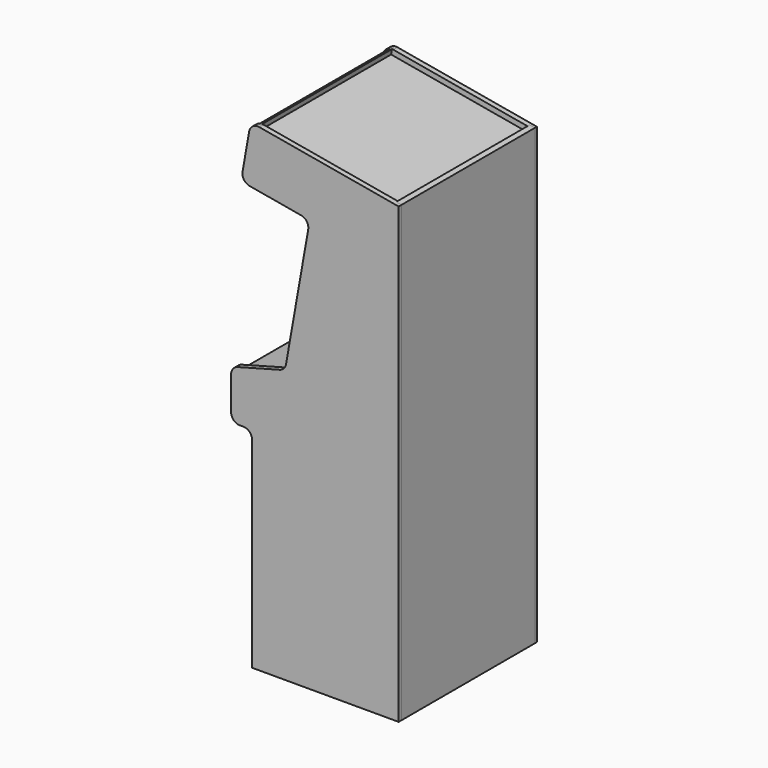
from build123d import *

# Parameters (mm, degrees)
F1_DEPTH       = 19.05
F2_W           = 476.25
F2_H           = 19.05
F2_W_2         = 57.15
F3_DEPTH       = 6.35
F6_DEPTH       = 596.9
F6_DEPTH_BACK  = 9.525
F7_DEPTH       = 596.9
F7_DEPTH_BACK  = 9.525
F8_DEPTH       = 596.9
F8_DEPTH_BACK  = 9.525
F9_DEPTH       = 596.9
F9_DEPTH_BACK  = 9.525
F10_W          = 419.1
F10_H          = 419.1
F11_DEPTH      = 25.4
F12_DEPTH      = 34.925
F12_DEPTH_BACK = 9.525
F13_DEPTH      = 596.9
F13_DEPTH_BACK = 9.525
F14_DEPTH      = 596.9
F14_DEPTH_BACK = 9.525
F15_DEPTH      = 596.9
F15_DEPTH_BACK = 9.525
F16_DEPTH      = 596.9
F16_DEPTH_BACK = 9.525
F17_DEPTH      = 596.9
F17_DEPTH_BACK = 9.525
F20_DEPTH      = 590.55
F21_W          = 508
F21_H          = 508
F21_W_2        = 419.1
F21_H_2        = 419.1
F21_W_3        = 406.4
F21_H_3        = 330.2
F22_DEPTH      = 19.05
F23_SIZE       = 15.875
F24_SIZE       = 15.875


with BuildPart() as f1:
    # F0 (on Front) → F1 (new body)
    with BuildSketch(Plane.XZ):
        with BuildLine():
            Line((0, 0), (533.4, 0))
            Line((533.4, 0), (533.4, 1651))
            Line((533.4, 1651), (26.2944406948, 1740.4163921728))
            ThreePointArc((26.2944406948, 1740.4163921728), (2.5700591998, 1735.1568234208), (-10.4865351042, 1714.6620756555))
            Line((-10.4865351042, 1714.6620756555), (-34.7451855243, 1577.0844325597))
            ThreePointArc((-34.7451855243, 1577.0844325597), (-29.4856167723, 1553.3600510647), (-8.9908690071, 1540.3034567607))
            Line((-8.9908690071, 1540.3034567607), (178.6150079417, 1507.2234789151))
            ThreePointArc((178.6150079417, 1507.2234789151), (199.109755707, 1494.1668846111), (204.3693244589, 1470.4425031161))
            Line((204.3693244589, 1470.4425031161), (123.5885062542, 1012.3117174576))
            ThreePointArc((123.5885062542, 1012.3117174576), (115.7294155398, 996.3750580068), (100.5383647781, 987.1569021139))
            Line((100.5383647781, 987.1569021139), (-52.667504682, 946.1055131163))
            ThreePointArc((-52.667504682, 946.1055131163), (-69.6389685542, 934.7655435027), (-76.2, 915.4373681317))
            Line((-76.2, 915.4373681317), (-76.2, 793.75))
            ThreePointArc((-76.2, 793.75), (-66.9006403027, 771.2993596973), (-44.45, 762))
            Line((-44.45, 762), (-31.75, 762))
            ThreePointArc((-31.75, 762), (-9.2993596973, 752.7006403027), (0, 730.25))
            Line((0, 730.25), (0, 0))
        make_face()
    extrude(amount=F1_DEPTH)

    # F2 (on face) → F3 (cut)
    with BuildSketch(Plane.XZ.offset(19.05)):
        Polygon((533.4, 1651), (514.35, 1654.3590289825), (514.35, 1635.0151520261), (514.35, 1615.6712750696), (514.35, 120.65), (514.35, 101.6), (514.35, 0), (533.4, 0), align=None)
        with Locations((276.225, 111.125)):
            Rectangle(F2_W, F2_H)
        Polygon((38.1, 101.6), (38.1, 120.65), (38.1, 800.1), (19.05, 800.1), (19.05, 781.05), (19.05, 0), (38.1, 0), align=None)
        with Locations((-9.525, 790.575)):
            Rectangle(F2_W_2, F2_H)
        Polygon((-38.1, 781.05), (-38.1, 800.1), (-38.1, 897.4168342668), (-38.1, 917.1388455036), (-57.15, 912.0344133878), (-57.15, 781.05), align=None)
        Polygon((-38.1, 781.05), (-38.1, 800.1), (-38.1, 897.4168342668), (-38.1, 917.1388455036), (-57.15, 912.0344133878), (-57.15, 781.05), align=None)
        Polygon((168.1345281028, 972.3992207602), (263.2188857374, 1511.6494095436), (244.4582980426, 1514.9574073282), (147.8313957078, 966.9590128311), align=None)
        Polygon((266.526883522, 1530.4099972385), (-7.0775274202, 1578.6538369284), (-10.3855252047, 1559.8932492336), (244.4582980426, 1514.9574073282), (263.2188857374, 1511.6494095436), align=None)
        with BuildLine():
            Line((14.9757911435, 1703.724421561), (18.2837889281, 1722.4850092559))
            Line((18.2837889281, 1722.4850092559), (21.529073841, 1740.889934582))
            ThreePointArc((21.529073841, 1740.889934582), (17.3994339461, 1740.7181419534), (13.3271026728, 1740.0113489355))
            Line((13.3271026728, 1740.0113489355), (10.479384447, 1723.8611363342))
            Line((10.479384447, 1723.8611363342), (-18.1899296858, 1561.2693763119))
            Line((-18.1899296858, 1561.2693763119), (-10.3855252047, 1559.8932492336))
            Line((-10.3855252047, 1559.8932492336), (-7.0775274202, 1578.6538369284))
            Line((-7.0775274202, 1578.6538369284), (14.9757911435, 1703.724421561))
        make_face()
        Polygon((514.35, 1615.6712750696), (514.35, 1635.0151520261), (18.2837889281, 1722.4850092559), (14.9757911435, 1703.724421561), align=None)
        with BuildLine():
            Line((14.9757911435, 1703.724421561), (18.2837889281, 1722.4850092559))
            Line((18.2837889281, 1722.4850092559), (21.529073841, 1740.889934582))
            ThreePointArc((21.529073841, 1740.889934582), (17.3994339461, 1740.7181419534), (13.3271026728, 1740.0113489355))
            Line((13.3271026728, 1740.0113489355), (10.479384447, 1723.8611363342))
            Line((10.479384447, 1723.8611363342), (-18.1899296858, 1561.2693763119))
            Line((-18.1899296858, 1561.2693763119), (-10.3855252047, 1559.8932492336))
            Line((-10.3855252047, 1559.8932492336), (-7.0775274202, 1578.6538369284))
            Line((-7.0775274202, 1578.6538369284), (14.9757911435, 1703.724421561))
        make_face()
        Polygon((164.4845563913, 951.6992025509), (168.1345281028, 972.3992207602), (147.8313957078, 966.9590128311), (-38.1, 917.1388455036), (-38.1, 897.4168342668), align=None)
    extrude(amount=-F3_DEPTH, mode=Mode.SUBTRACT)


with BuildPart() as f5_1:
    # F5: instance of F1
    add(f1.part.mirror(Plane(origin=(293.9945247949, -314.325, 827.7920823143), x_dir=(1, 0, 0), z_dir=(0, -1, 0))))


with BuildPart() as f6:
    # F2 (on face) → F6 (new body, two sides)
    with BuildSketch(Plane.XZ.offset(19.05)) as f6_sk:
        Polygon((514.35, 1615.6712750696), (514.35, 1635.0151520261), (18.2837889281, 1722.4850092559), (14.9757911435, 1703.724421561), align=None)
    extrude(amount=F6_DEPTH)
    extrude(f6_sk.sketch, amount=-F6_DEPTH_BACK)


with BuildPart() as f7:
    # F2 (on face) → F7 (new body, two sides)
    with BuildSketch(Plane.XZ.offset(19.05)) as f7_sk:
        with BuildLine():
            Line((14.9757911435, 1703.724421561), (18.2837889281, 1722.4850092559))
            Line((18.2837889281, 1722.4850092559), (21.529073841, 1740.889934582))
            ThreePointArc((21.529073841, 1740.889934582), (17.3994339461, 1740.7181419534), (13.3271026728, 1740.0113489355))
            Line((13.3271026728, 1740.0113489355), (10.479384447, 1723.8611363342))
            Line((10.479384447, 1723.8611363342), (-18.1899296858, 1561.2693763119))
            Line((-18.1899296858, 1561.2693763119), (-10.3855252047, 1559.8932492336))
            Line((-10.3855252047, 1559.8932492336), (-7.0775274202, 1578.6538369284))
            Line((-7.0775274202, 1578.6538369284), (14.9757911435, 1703.724421561))
        make_face()
    extrude(amount=F7_DEPTH)
    extrude(f7_sk.sketch, amount=-F7_DEPTH_BACK)


with BuildPart() as f8:
    # F2 (on face) → F8 (new body, two sides)
    with BuildSketch(Plane.XZ.offset(19.05)) as f8_sk:
        Polygon((266.526883522, 1530.4099972385), (-7.0775274202, 1578.6538369284), (-10.3855252047, 1559.8932492336), (244.4582980426, 1514.9574073282), (263.2188857374, 1511.6494095436), align=None)
    extrude(amount=F8_DEPTH)
    extrude(f8_sk.sketch, amount=-F8_DEPTH_BACK)


with BuildPart() as f9:
    # F2 (on face) → F9 (new body, two sides)
    with BuildSketch(Plane.XZ.offset(19.05)) as f9_sk:
        Polygon((168.1345281028, 972.3992207602), (263.2188857374, 1511.6494095436), (244.4582980426, 1514.9574073282), (147.8313957078, 966.9590128311), align=None)
    extrude(amount=F9_DEPTH)
    extrude(f9_sk.sketch, amount=-F9_DEPTH_BACK)

    # F10 (on face) → F11 (cut)
    with BuildSketch(Plane(origin=(-21.9859963918, 0, 3.8767243616), x_dir=(0, -1, 0), z_dir=(-0.984807753, 0, 0.1736481777))):
        with Locations((312.7375, 1256.1654616692)):
            Rectangle(F10_W, F10_H)
    extrude(amount=-F11_DEPTH, mode=Mode.SUBTRACT)


with BuildPart() as f12:
    # F2 (on face) → F12 (new body, two sides)
    with BuildSketch(Plane.XZ.offset(19.05)) as f12_sk:
        Polygon((164.4845563913, 951.6992025509), (168.1345281028, 972.3992207602), (147.8313957078, 966.9590128311), (-38.1, 917.1388455036), (-38.1, 897.4168342668), align=None)
    extrude(amount=F12_DEPTH)
    extrude(f12_sk.sketch, amount=-F12_DEPTH_BACK)


with BuildPart() as f13:
    # F2 (on face) → F13 (new body, two sides)
    with BuildSketch(Plane.XZ.offset(19.05)) as f13_sk:
        Polygon((-38.1, 781.05), (-38.1, 800.1), (-38.1, 897.4168342668), (-38.1, 917.1388455036), (-57.15, 912.0344133878), (-57.15, 781.05), align=None)
    extrude(amount=F13_DEPTH)
    extrude(f13_sk.sketch, amount=-F13_DEPTH_BACK)


with BuildPart() as f14:
    # F2 (on face) → F14 (new body, two sides)
    with BuildSketch(Plane.XZ.offset(19.05)) as f14_sk:
        with Locations((-9.525, 790.575)):
            Rectangle(F2_W_2, F2_H)
    extrude(amount=F14_DEPTH)
    extrude(f14_sk.sketch, amount=-F14_DEPTH_BACK)


with BuildPart() as f15:
    # F2 (on face) → F15 (new body, two sides)
    with BuildSketch(Plane.XZ.offset(19.05)) as f15_sk:
        Polygon((38.1, 101.6), (38.1, 120.65), (38.1, 800.1), (19.05, 800.1), (19.05, 781.05), (19.05, 0), (38.1, 0), align=None)
    extrude(amount=F15_DEPTH)
    extrude(f15_sk.sketch, amount=-F15_DEPTH_BACK)


with BuildPart() as f16:
    # F2 (on face) → F16 (new body, two sides)
    with BuildSketch(Plane.XZ.offset(19.05)) as f16_sk:
        with Locations((276.225, 111.125)):
            Rectangle(F2_W, F2_H)
    extrude(amount=F16_DEPTH)
    extrude(f16_sk.sketch, amount=-F16_DEPTH_BACK)


with BuildPart() as f17:
    # F2 (on face) → F17 (new body, two sides)
    with BuildSketch(Plane.XZ.offset(19.05)) as f17_sk:
        Polygon((533.4, 1651), (514.35, 1654.3590289825), (514.35, 1635.0151520261), (514.35, 1615.6712750696), (514.35, 120.65), (514.35, 101.6), (514.35, 0), (533.4, 0), align=None)
    extrude(amount=F17_DEPTH)
    extrude(f17_sk.sketch, amount=-F17_DEPTH_BACK)


with BuildPart() as f18_1:
    # F18: instance of F12
    add(f12.part.mirror(Plane(origin=(293.9945247949, -314.325, 827.7920823143), x_dir=(1, 0, 0), z_dir=(0, -1, 0))))


with BuildPart() as f20:
    # F19 (on face) → F20 (new body, through all)
    with BuildSketch(Plane.XZ.offset(19.05)):
        with BuildLine():
            Line((-57.15, 922.0113718773), (-57.15, 912.0344133878))
            Line((-57.15, 912.0344133878), (-38.1, 917.1388455036))
            Line((-38.1, 917.1388455036), (147.8313957078, 966.9590128311))
            Line((147.8313957078, 966.9590128311), (151.4813674193, 987.6590310404))
            Line((151.4813674193, 987.6590310404), (-47.7370018728, 934.2786298711))
            ThreePointArc((-47.7370018728, 934.2786298711), (-54.5255874217, 929.7426420257), (-57.15, 922.0113718773))
        make_face()
    extrude(amount=F20_DEPTH)


with BuildPart() as f22:
    # F21 (on face) → F22 (new body)
    with BuildSketch(Plane(origin=(-21.9859963918, 0, 3.8767243616), x_dir=(0, -1, 0), z_dir=(-0.984807753, 0, 0.1736481777))):
        with Locations((312.7375, 1256.1654616692)):
            Rectangle(F21_W, F21_H)
        with Locations((312.7375, 1256.1654616692)):
            Rectangle(F21_W_2, F21_H_2, mode=Mode.SUBTRACT)
        with Locations((312.7375, 1256.1654616692)):
            Rectangle(F21_W_2, F21_H_2)
        with Locations((312.7375, 1256.1654616692)):
            Rectangle(F21_W_3, F21_H_3, mode=Mode.SUBTRACT)
    extrude(amount=F22_DEPTH)

    # F23
    f23_edges = [f22.edges().sort_by_distance(p)[0] for p in [
        (206.053573, -312.7375, 1406.857968),
        (177.384259, -109.5375, 1244.266208),
        (148.714945, -312.7375, 1081.674448),
        (177.384259, -515.9375, 1244.266208),
    ]]
    chamfer(f23_edges, length=F23_SIZE)

    # F24
    f24_edges = [f22.edges().sort_by_distance(p)[0] for p in [
        (177.384259, -566.7375, 1244.266208),
        (221.490896, -312.7375, 1494.407377),
        (177.384259, -58.7375, 1244.266208),
        (133.277622, -312.7375, 994.125039),
    ]]
    chamfer(f24_edges, length=F24_SIZE)


solid = Compound([f1.part, f5_1.part, f6.part, f7.part, f8.part, f9.part, f12.part, f13.part, f14.part, f15.part, f16.part, f17.part, f18_1.part, f20.part, f22.part])
